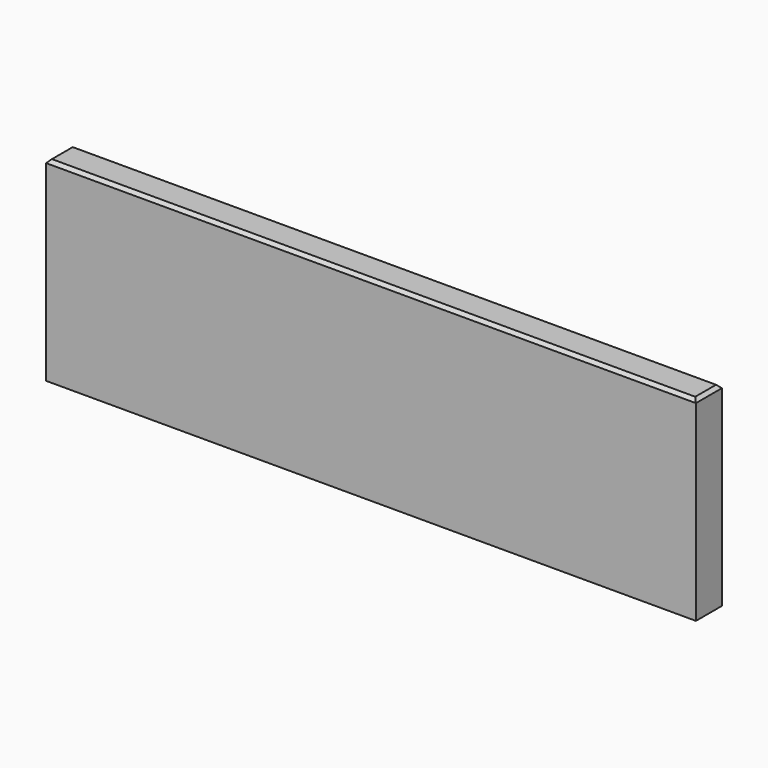
from build123d import *

# Parameters (mm, degrees)
F0_W     = 100
F0_H     = 30
F1_DEPTH = 2.5
F2_SIZE  = 0.5


with BuildPart() as f1:
    # F0 (on Front) → F1 (new body, symmetric)
    with BuildSketch(Plane.XZ):
        Rectangle(F0_W, F0_H)
    extrude(amount=F1_DEPTH, both=True)

    # F2
    f2_edges = [f1.edges().sort_by_distance(p)[0] for p in [
        (0, 2.5, 15),
        (0, -2.5, 15),
        (-50, 0, 15),
        (50, 0, 15),
    ]]
    chamfer(f2_edges, length=F2_SIZE)


solid = f1.part
